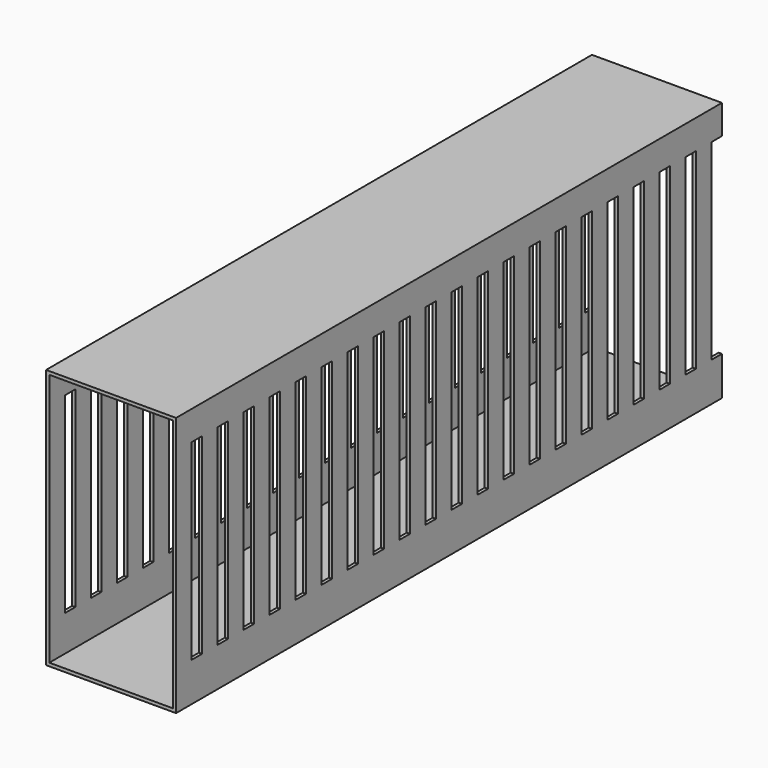
from build123d import *

# Parameters (mm, degrees)
F1_W     = 40
F1_H     = 80
F2_DEPTH = 210
F3_T     = -1
F4_W     = 4
F4_H     = 59
F5_DEPTH = 40.001


with BuildPart() as f2:
    # F1 (on Front) → F2 (new body)
    with BuildSketch(Plane.XZ):
        Rectangle(F1_W, F1_H)
    extrude(amount=F2_DEPTH)

    # F3
    f3_openings = [f2.faces().sort_by_distance(p)[0] for p in [
        (0, -210, 0),
        (0, 0, 0),
    ]]
    offset(amount=F3_T, openings=f3_openings)

    # F4 (on face) → F5 (cut, through all)
    with BuildSketch(Plane.YZ.offset(20)):
        with Locations((-202, 1.5)):
            Rectangle(F4_W, F4_H)
        with Locations((-192, 1.5)):
            Rectangle(F4_W, F4_H)
        with Locations((-182, 1.5)):
            Rectangle(F4_W, F4_H)
        with Locations((-172, 1.5)):
            Rectangle(F4_W, F4_H)
        with Locations((-162, 1.5)):
            Rectangle(F4_W, F4_H)
        with Locations((-152, 1.5)):
            Rectangle(F4_W, F4_H)
        with Locations((-142, 1.5)):
            Rectangle(F4_W, F4_H)
        with Locations((-132, 1.5)):
            Rectangle(F4_W, F4_H)
        with Locations((-122, 1.5)):
            Rectangle(F4_W, F4_H)
        with Locations((-112, 1.5)):
            Rectangle(F4_W, F4_H)
        with Locations((-102, 1.5)):
            Rectangle(F4_W, F4_H)
        with Locations((-92, 1.5)):
            Rectangle(F4_W, F4_H)
        with Locations((-82, 1.5)):
            Rectangle(F4_W, F4_H)
        with Locations((-72, 1.5)):
            Rectangle(F4_W, F4_H)
        with Locations((-62, 1.5)):
            Rectangle(F4_W, F4_H)
        with Locations((-52, 1.5)):
            Rectangle(F4_W, F4_H)
        with Locations((-42, 1.5)):
            Rectangle(F4_W, F4_H)
        with Locations((-32, 1.5)):
            Rectangle(F4_W, F4_H)
        with Locations((-22, 1.5)):
            Rectangle(F4_W, F4_H)
        with Locations((-12, 1.5)):
            Rectangle(F4_W, F4_H)
        with Locations((-2, 1.5)):
            Rectangle(F4_W, F4_H)
        with Locations((8, 1.5)):
            Rectangle(F4_W, F4_H)
        with Locations((18, 1.5)):
            Rectangle(F4_W, F4_H)
        with Locations((28, 1.5)):
            Rectangle(F4_W, F4_H)
        with Locations((38, 1.5)):
            Rectangle(F4_W, F4_H)
        with Locations((48, 1.5)):
            Rectangle(F4_W, F4_H)
        with Locations((58, 1.5)):
            Rectangle(F4_W, F4_H)
        with Locations((68, 1.5)):
            Rectangle(F4_W, F4_H)
        with Locations((78, 1.5)):
            Rectangle(F4_W, F4_H)
        with Locations((88, 1.5)):
            Rectangle(F4_W, F4_H)
        with Locations((98, 1.5)):
            Rectangle(F4_W, F4_H)
        with Locations((108, 1.5)):
            Rectangle(F4_W, F4_H)
        with Locations((118, 1.5)):
            Rectangle(F4_W, F4_H)
        with Locations((128, 1.5)):
            Rectangle(F4_W, F4_H)
        with Locations((138, 1.5)):
            Rectangle(F4_W, F4_H)
        with Locations((148, 1.5)):
            Rectangle(F4_W, F4_H)
        with Locations((158, 1.5)):
            Rectangle(F4_W, F4_H)
        with Locations((168, 1.5)):
            Rectangle(F4_W, F4_H)
        with Locations((178, 1.5)):
            Rectangle(F4_W, F4_H)
        with Locations((198, 1.5)):
            Rectangle(F4_W, F4_H)
        with Locations((208, 1.5)):
            Rectangle(F4_W, F4_H)
        with Locations((218, 1.5)):
            Rectangle(F4_W, F4_H)
        with Locations((228, 1.5)):
            Rectangle(F4_W, F4_H)
        with Locations((238, 1.5)):
            Rectangle(F4_W, F4_H)
        with Locations((188, 1.5)):
            Rectangle(F4_W, F4_H)
    extrude(amount=-F5_DEPTH, mode=Mode.SUBTRACT)


solid = f2.part
